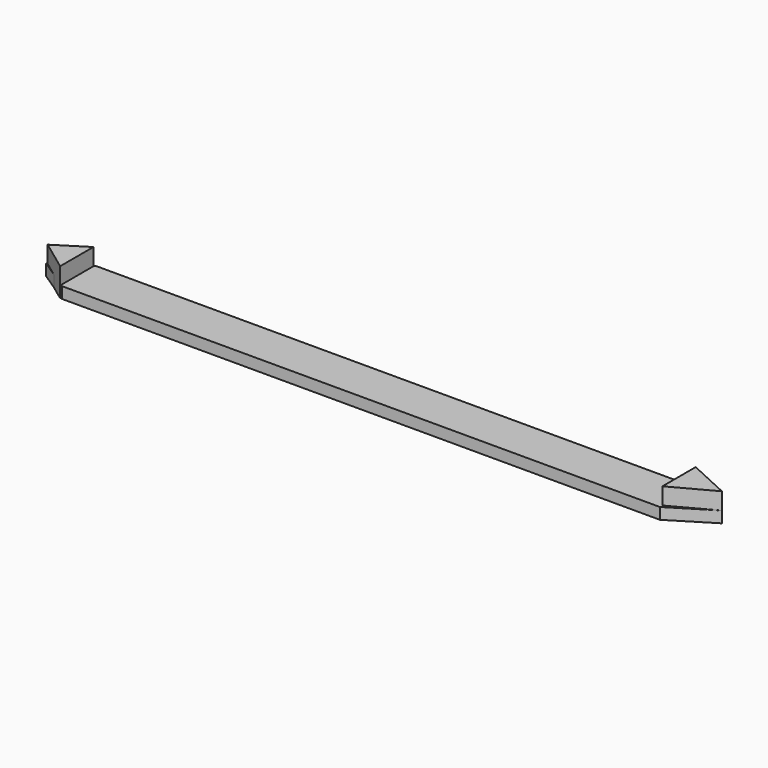
from build123d import *

# Parameters (mm, degrees)
F1_DEPTH = 2
F3_DEPTH = 5
F5_DEPTH = 5


with BuildPart() as f1:
    # F0 (on Top) → F1 (new body)
    with BuildSketch(Plane.XY):
        Polygon((47.731567, 14.58858), (-58.212683, 14.58858), (-64.16142, 10.906025), (-58.212683, 6.940198), (47.731567, 6.940198), (55.096671, 11.472573), align=None)
    extrude(amount=F1_DEPTH)

    # F2 (on Top) → F3 (join)
    with BuildSketch(Plane.XY):
        Polygon((-58.495954, 14.305307), (-63.878149, 10.906025), (-58.495954, 6.940198), align=None)
    extrude(amount=F3_DEPTH)

    # F4 (on Top) → F5 (join)
    with BuildSketch(Plane.XY):
        Polygon((55.096671, 11.472573), (47.731567, 14.871853), (47.731567, 7.506745), align=None)
    extrude(amount=F5_DEPTH)


solid = f1.part
